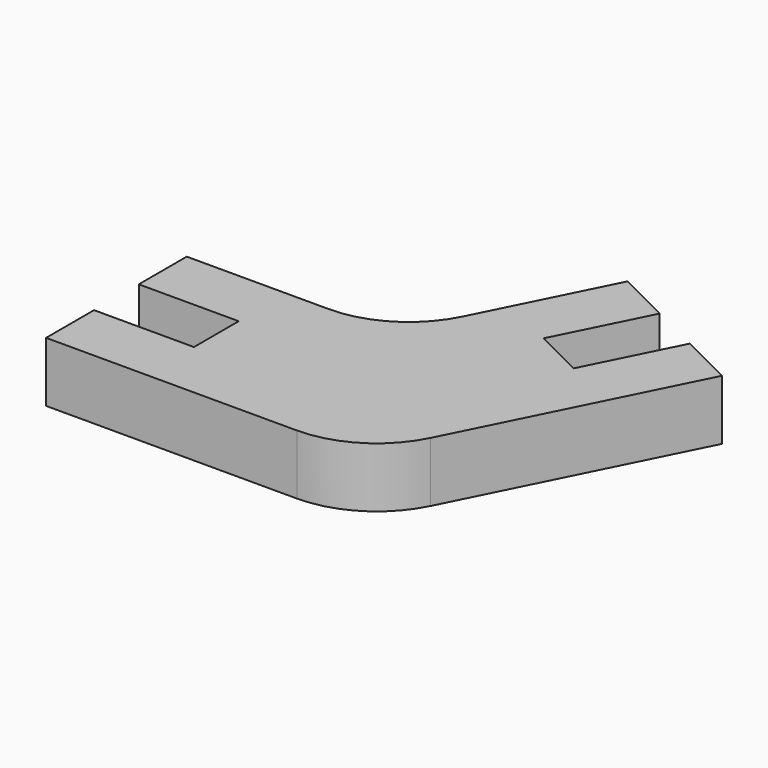
from build123d import *

# Parameters (mm, degrees)
F1_DEPTH = 3


with BuildPart() as f1:
    # F0 (on Top) → F1 (new body)
    with BuildSketch(Plane.XY):
        with BuildLine():
            Line((-7.495554, -1.252463), (-2.495554, -1.252463))
            Line((-2.495554, -1.252463), (-2.495554, -4.052463))
            Line((-2.495554, -4.052463), (-7.495554, -4.052463))
            Line((-7.495554, -4.052463), (-7.495554, -7.052463))
            Line((-7.495554, -7.052463), (5.053015, -7.052463))
            ThreePointArc((5.053015, -7.052463), (7.682229, -6.305372), (9.525738, -4.287356))
            Line((9.525738, -4.287356), (15.134679, 6.937898))
            Line((15.134679, 6.937898), (12.451045, 8.278834))
            Line((12.451045, 8.278834), (10.216152, 3.806111))
            Line((10.216152, 3.806111), (7.711427, 5.057651))
            Line((7.711427, 5.057651), (9.94632, 9.530374))
            Line((9.94632, 9.530374), (7.262687, 10.87131))
            Line((7.262687, 10.87131), (4.085441, 4.512644))
            ThreePointArc((4.085441, 4.512644), (2.241932, 2.494628), (-0.387282, 1.747537))
            Line((-0.387282, 1.747537), (-7.495554, 1.747537))
            Line((-7.495554, 1.747537), (-7.495554, -1.252463))
        make_face()
    extrude(amount=F1_DEPTH)


solid = f1.part
